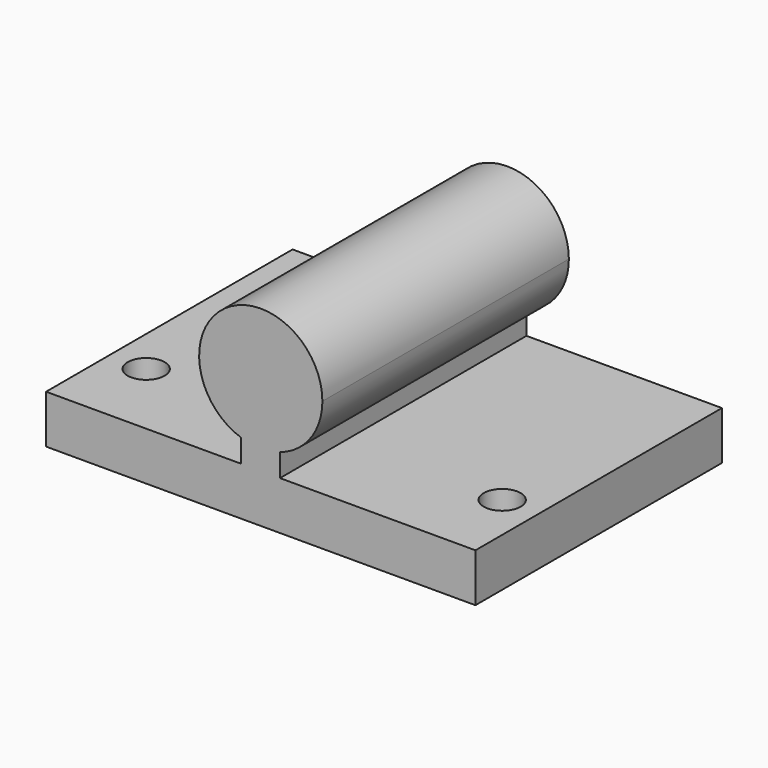
from build123d import *

# Parameters (mm, degrees)
F0_W     = 3.1506001928
F0_H     = 3.9233311644
F0_W_2   = 15.8593781031
F0_W_3   = 15.828302058
F2_DEPTH = 25
F1_R     = 1.5
F3_DEPTH = 6
F4_DEPTH = 6


with BuildPart() as f2:
    # F0 (on Front) → F2 (new body)
    with BuildSketch(Plane.XZ):
        with BuildLine():
            ThreePointArc((5, 8.5672423611), (-2.9194014288, 12.6264412103), (-1.5908381189, 3.827069993))
            Line((-1.5908381189, 3.827069993), (-1.5908381189, 8.5672423611))
            Line((-1.5908381189, 8.5672423611), (1.5597620739, 8.5672423611))
            Line((1.5597620739, 8.5672423611), (1.5597620739, 3.8167537259))
            ThreePointArc((1.5597620739, 3.8167537259), (4.049617906, 5.6345652879), (5, 8.5672423611))
        make_face()
        with BuildLine():
            Line((-1.5908381189, 8.5672423611), (-1.5908381189, 3.827069993))
            ThreePointArc((-1.5908381189, 3.827069993), (-0.0163718198, 3.5672691648), (1.5597620739, 3.8167537259))
            Line((1.5597620739, 3.8167537259), (1.5597620739, 8.5672423611))
            Line((1.5597620739, 8.5672423611), (-1.5908381189, 8.5672423611))
        make_face()
        with Locations((-0.0155380225, 0)):
            Rectangle(F0_W, F0_H)
        with BuildLine():
            Line((-1.5908381189, 3.827069993), (-1.5908381189, 1.9616655822))
            Line((-1.5908381189, 1.9616655822), (1.5597620739, 1.9616655822))
            Line((1.5597620739, 1.9616655822), (1.5597620739, 3.8167537259))
            ThreePointArc((1.5597620739, 3.8167537259), (-0.0163718198, 3.5672691648), (-1.5908381189, 3.827069993))
        make_face()
        with Locations((9.4894511254, 0)):
            Rectangle(F0_W_2, F0_H)
        with Locations((-9.5049891479, 0)):
            Rectangle(F0_W_3, F0_H)
    extrude(amount=-F2_DEPTH)

    # F1 (on Top) → F3 (cut, symmetric)
    with BuildSketch(Plane.XY):
        with Locations((14.419140177, 6.4654615708)):
            Circle(F1_R)
    extrude(amount=F3_DEPTH, both=True, mode=Mode.SUBTRACT)

    # F1 (on Top) → F4 (cut, symmetric)
    with BuildSketch(Plane.XY):
        with Locations((-14.419140177, 6.4020673744)):
            Circle(F1_R)
    extrude(amount=F4_DEPTH, both=True, mode=Mode.SUBTRACT)


solid = f2.part
